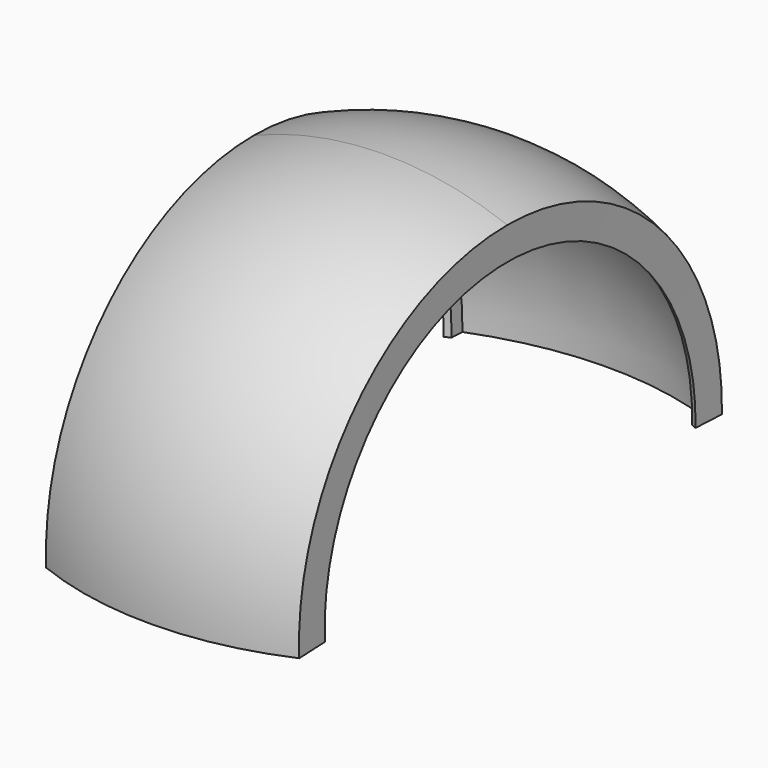
from build123d import *

# Parameters (mm, degrees)
F1_ANGLE = 183.776526


with BuildPart() as f1:
    # F0 (on Front) → F1 (revolve, symmetric)
    with BuildSketch(Plane.XZ) as f1_sk:
        with BuildLine():
            ThreePointArc((15, 38.610307), (-0.039705, 41.242922), (-15, 38.191206))
            Line((-15, 38.191206), (-14.952645, 35.732973))
            Line((-14.952645, 35.732973), (-15, 35.708816))
            Line((-15, 35.708816), (-15, 34.639609))
            Line((-15, 34.639609), (-14.340117, 34.990203))
            Line((-14.340117, 34.990203), (-14.340117, 36.578923))
            ThreePointArc((-14.340117, 36.578923), (-0.01537, 39.500995), (14.385413, 36.98022))
            Line((14.385413, 36.98022), (14.385413, 35.022542))
            Line((14.385413, 35.022542), (15, 34.765044))
            Line((15, 34.765044), (15, 35.966083))
            Line((15, 35.966083), (15, 38.610307))
        make_face()
    revolve(axis=Axis((0.706701, 0, 7.158781), (0.999932, 0, 0.011679)), revolution_arc=F1_ANGLE / 2)
    revolve(f1_sk.sketch, axis=Axis((0.706701, 0, 7.158781), (-0.999932, 0, -0.011679)), revolution_arc=F1_ANGLE / 2)


solid = f1.part
